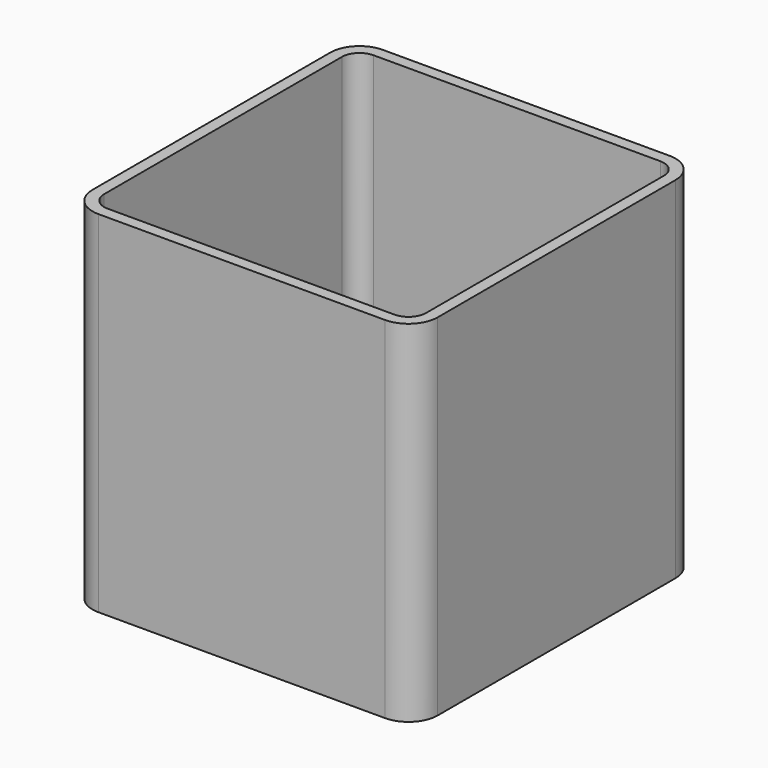
from build123d import *

# Parameters (mm, degrees)
F0_W     = 75.05083
F0_H     = 77.315293
F1_DEPTH = 76.2
F2_R     = 6.35
F3_T     = -2.54


with BuildPart() as f1:
    # F0 (on Top) → F1 (new body)
    with BuildSketch(Plane.XY):
        with Locations((1.015164, -1.165115)):
            Rectangle(F0_W, F0_H)
    extrude(amount=F1_DEPTH)

    # F2
    f2_edges = [f1.edges().sort_by_distance(p)[0] for p in [
        (-36.510251, -39.822761, 38.1),
        (-36.510251, 37.492532, 38.1),
        (38.540579, 37.492532, 38.1),
        (38.540579, -39.822761, 38.1),
    ]]
    fillet(f2_edges, radius=F2_R)

    # F3
    f3_openings = [f1.faces().sort_by_distance(p)[0] for p in [
        (1.015164, -1.165114, 76.2),
    ]]
    offset(amount=F3_T, openings=f3_openings)


solid = f1.part
